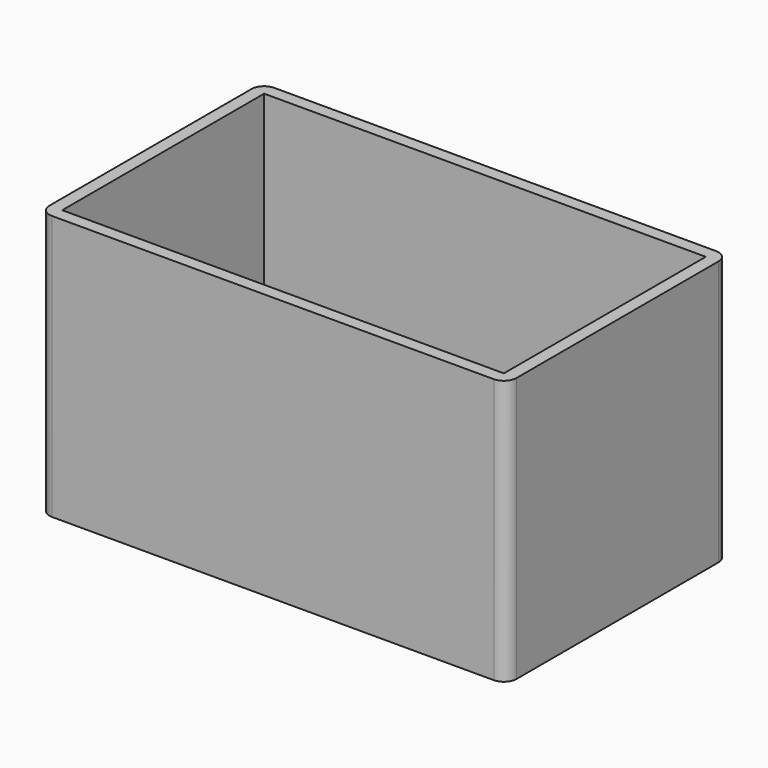
from build123d import *

# Parameters (mm, degrees)
F0_W     = 2
F0_H     = 40
F1_DEPTH = 42
F2_W     = 70
F2_H     = 40
F3_DEPTH = 2
F4_R     = 2


with BuildPart() as f1:
    # F0 (on Top) → F1 (new body)
    with BuildSketch(Plane.XY):
        Polygon((-37, 20), (-35, 20), (35, 20), (37, 20), (37, 22), (-37, 22), align=None)
        with Locations((-36, 0)):
            Rectangle(F0_W, F0_H)
        Polygon((35, -20), (-35, -20), (-37, -20), (-37, -22), (37, -22), (37, -20), align=None)
        with Locations((36, 0)):
            Rectangle(F0_W, F0_H)
    extrude(amount=F1_DEPTH)

    # F2 (on face) → F3 (join)
    with BuildSketch(Plane(origin=(0, 0, 0), x_dir=(1, 0, 0), z_dir=(0, 0, -1))):
        Rectangle(F2_W, F2_H)
    extrude(amount=-F3_DEPTH)

    # F4
    f4_edges = [f1.edges().sort_by_distance(p)[0] for p in [
        (37, -22, 21),
        (37, 22, 21),
        (-37, -22, 21),
        (-37, 22, 21),
    ]]
    fillet(f4_edges, radius=F4_R)


solid = f1.part
